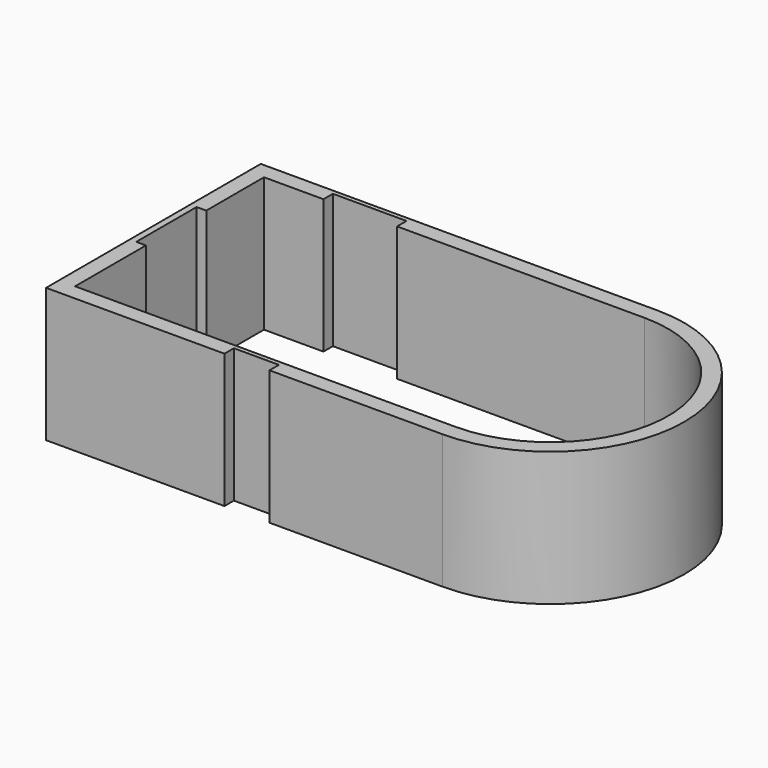
from build123d import *

# Parameters (mm, degrees)
F1_DEPTH = 25


with BuildPart() as f1:
    # F0 (on Top) → F1 (new body)
    with BuildSketch(Plane.XY):
        with BuildLine():
            Line((-30.05274, 11.200704), (-48.534881, 11.200704))
            Line((-48.534881, 11.200704), (-48.534881, -38.799296))
            Line((-48.534881, -38.799296), (-15.306122, -38.799296))
            Line((-15.306122, -38.799296), (-15.306122, -36.599296))
            Line((-15.306122, -36.599296), (-6.91196, -36.599296))
            Line((-6.91196, -36.599296), (-6.91196, -38.799296))
            Line((-6.91196, -38.799296), (25.364829, -38.799296))
            ThreePointArc((25.364829, -38.799296), (50.364829, -13.799296), (25.364829, 11.200704))
            Line((25.364829, 11.200704), (-19.365611, 11.200704))
            Line((-19.365611, 11.200704), (-30.05274, 11.200704))
        make_face()
        with BuildLine():
            Line((-45.534881, -5.245955), (-45.534881, 8.200704))
            Line((-45.534881, 8.200704), (-34.456972, 8.200704))
            Line((-34.456972, 8.200704), (-34.456972, 10.400704))
            Line((-34.456972, 10.400704), (-20.740092, 10.400704))
            Line((-20.740092, 10.400704), (-20.740092, 8.200704))
            Line((-20.740092, 8.200704), (25.364829, 8.200704))
            ThreePointArc((25.364829, 8.200704), (47.364829, -13.799296), (25.364829, -35.799296))
            Line((25.364829, -35.799296), (-45.534881, -35.799296))
            Line((-45.534881, -35.799296), (-45.534881, -19.307144))
            Line((-45.534881, -19.307144), (-47.334881, -19.307144))
            Line((-47.334881, -19.307144), (-47.334881, -5.245955))
            Line((-47.334881, -5.245955), (-45.534881, -5.245955))
        make_face(mode=Mode.SUBTRACT)
    extrude(amount=F1_DEPTH)


solid = f1.part
